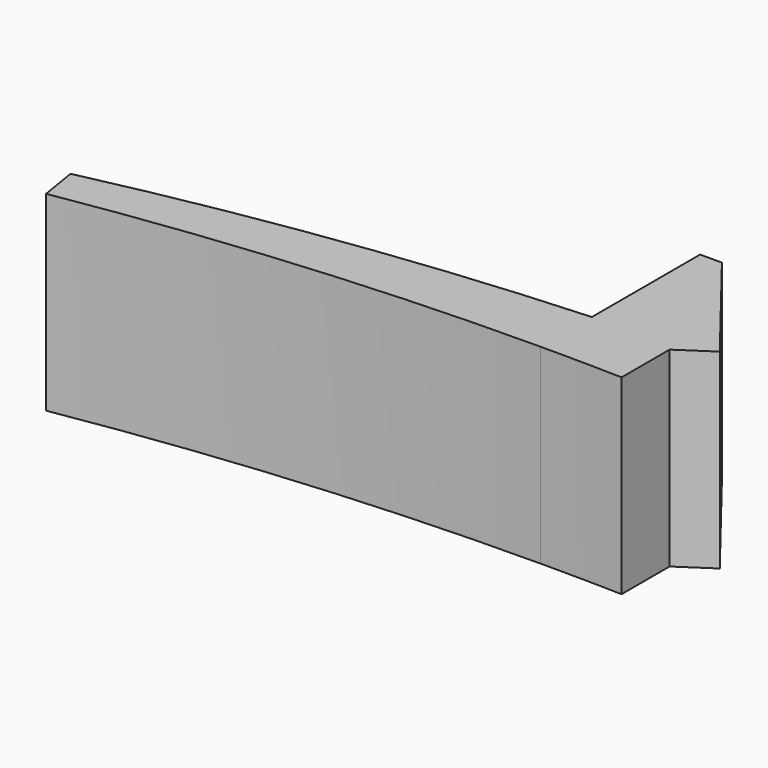
from build123d import *

# Parameters (mm, degrees)
F1_DEPTH = 7


with BuildPart() as f1:
    # F0 (on Top) → F1 (new body)
    with BuildSketch(Plane.XY):
        with BuildLine():
            ThreePointArc((-3.952456, 0.032943), (-2.452339, 0.027193), (-0.952456, 0))
            Line((-0.952456, 0), (-0.952456, 2.2))
            Line((-0.952456, 2.2), (0.247544, 3))
            Line((0.247544, 3), (-3.152456, 7.348705))
            Line((-3.152456, 7.348705), (-3.952456, 7.348705))
            Line((-3.952456, 7.348705), (-3.952456, 2.5))
            Line((-3.952456, 2.5), (-3.952456, 2.388958))
            ThreePointArc((-3.952456, 2.388958), (-12.602156, 1.550858), (-21.152861, 0))
            Line((-21.152861, 0), (-20.925339, -1.405665))
            ThreePointArc((-20.925339, -1.405665), (-12.468133, -0.341437), (-3.952456, 0.032943))
        make_face()
    extrude(amount=F1_DEPTH)


solid = f1.part
